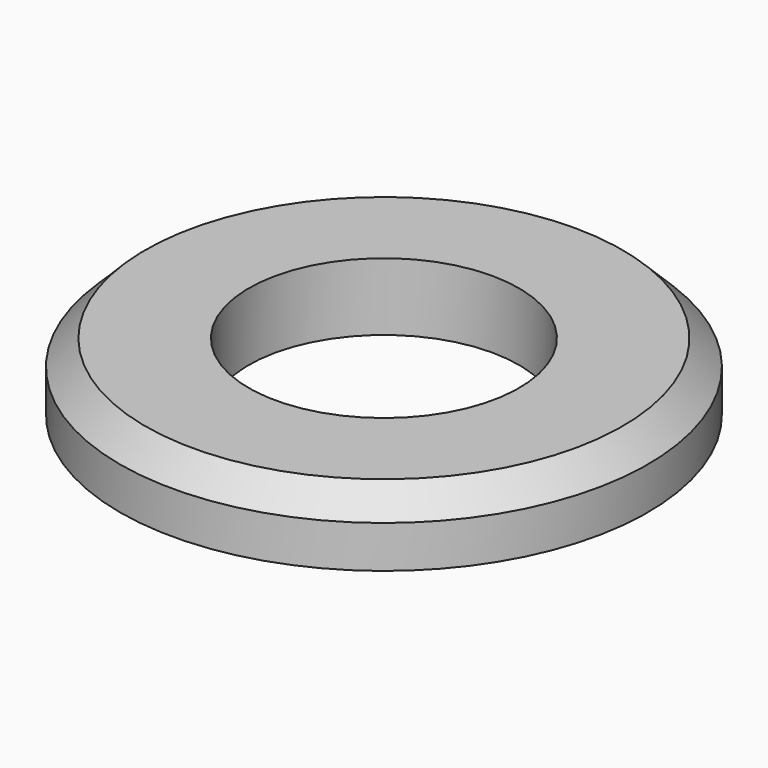
from build123d import *


with BuildPart() as part:
    # Sketch → Revolution (revolve)
    with BuildSketch(Plane.YZ):
        Polygon((3.2, 0), (6.25, 0), (6.25, 1), (5.65, 1.6), (3.2, 1.6), align=None)
    revolve(axis=Axis((0, 0, 0), (0, 0, 1)))


solid = part.part
